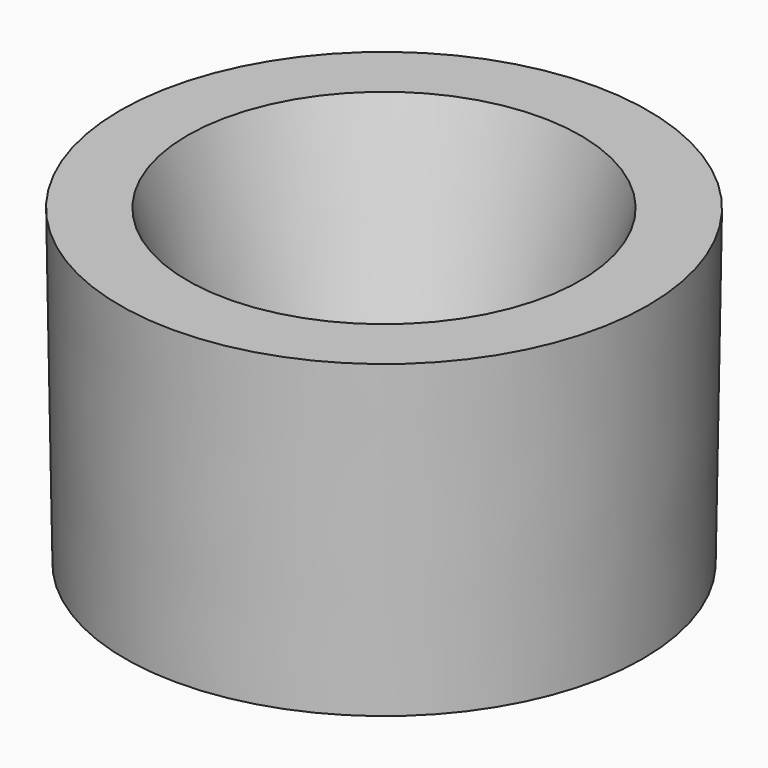
from build123d import *

# Parameters (mm, degrees)
F3_D = 7.6


with BuildPart() as f1:
    # F0 (on Front) → F1 (revolve)
    with BuildSketch(Plane.XZ):
        Polygon((-33.8449403644, 29.7382306308), (-45.4570092261, 29.7382306308), (-44.6073450148, -24.07380566), (0, -24.07380566), (0, -11.3288499415), (-21.9496469945, -11.3288499415), align=None)
    revolve(axis=Axis((0, 0, -2.6906020939), (0, 0, -1)))

    # F3 (through all)
    with Locations(Plane(origin=(0, 0, -24.07380566), x_dir=(1, 0, 0), z_dir=(0, 0, -1))):
        with Locations((0, 0)):
            Hole(F3_D / 2)


solid = f1.part
